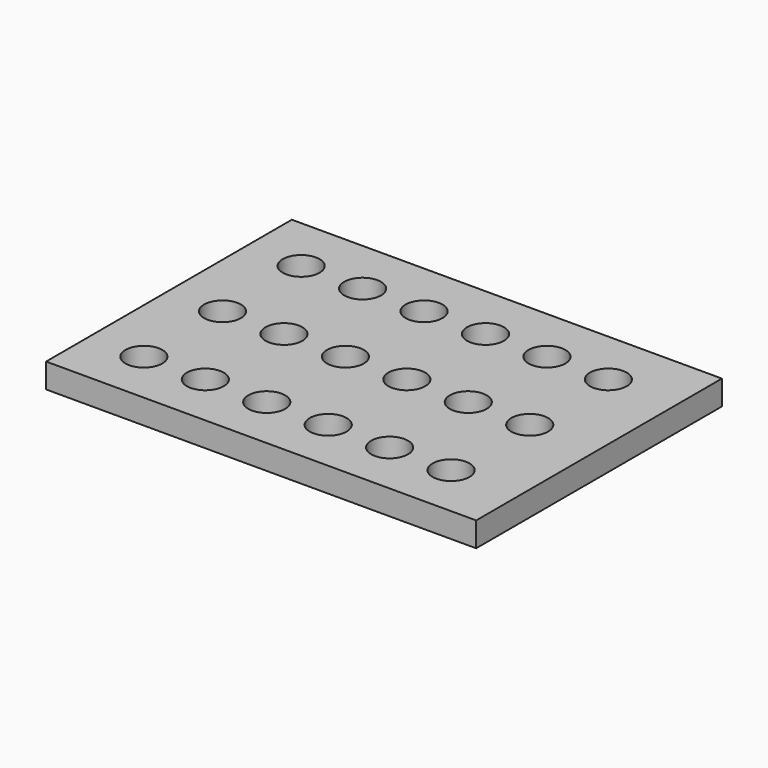
from build123d import *

# Parameters (mm, degrees)
F0_W     = 175
F0_H     = 125
F0_R     = 7.5
F1_DEPTH = 10


with BuildPart() as f1:
    # F0 (on Top) → F1 (new body)
    with BuildSketch(Plane.XY):
        Rectangle(F0_W, F0_H)
        with Locations((-65.311081, -40.492085)):
            Circle(F0_R, mode=Mode.SUBTRACT)
        with Locations((-40.311081, -40.492085)):
            Circle(F0_R, mode=Mode.SUBTRACT)
        with Locations((-15.311081, -40.492085)):
            Circle(F0_R, mode=Mode.SUBTRACT)
        with Locations((-65.311081, -0.492085)):
            Circle(F0_R, mode=Mode.SUBTRACT)
        with Locations((-40.311081, -0.492085)):
            Circle(F0_R, mode=Mode.SUBTRACT)
        with Locations((-15.311081, -0.492085)):
            Circle(F0_R, mode=Mode.SUBTRACT)
        with Locations((9.688919, -40.492085)):
            Circle(F0_R, mode=Mode.SUBTRACT)
        with Locations((34.688919, -40.492085)):
            Circle(F0_R, mode=Mode.SUBTRACT)
        with Locations((59.688919, -40.492085)):
            Circle(F0_R, mode=Mode.SUBTRACT)
        with Locations((9.688919, -0.492085)):
            Circle(F0_R, mode=Mode.SUBTRACT)
        with Locations((34.688919, -0.492085)):
            Circle(F0_R, mode=Mode.SUBTRACT)
        with Locations((59.688919, -0.492085)):
            Circle(F0_R, mode=Mode.SUBTRACT)
        with Locations((-65.311081, 39.507915)):
            Circle(F0_R, mode=Mode.SUBTRACT)
        with Locations((-40.311081, 39.507915)):
            Circle(F0_R, mode=Mode.SUBTRACT)
        with Locations((-15.311081, 39.507915)):
            Circle(F0_R, mode=Mode.SUBTRACT)
        with Locations((9.688919, 39.507915)):
            Circle(F0_R, mode=Mode.SUBTRACT)
        with Locations((34.688919, 39.507915)):
            Circle(F0_R, mode=Mode.SUBTRACT)
        with Locations((59.688919, 39.507915)):
            Circle(F0_R, mode=Mode.SUBTRACT)
    extrude(amount=F1_DEPTH)


solid = f1.part
